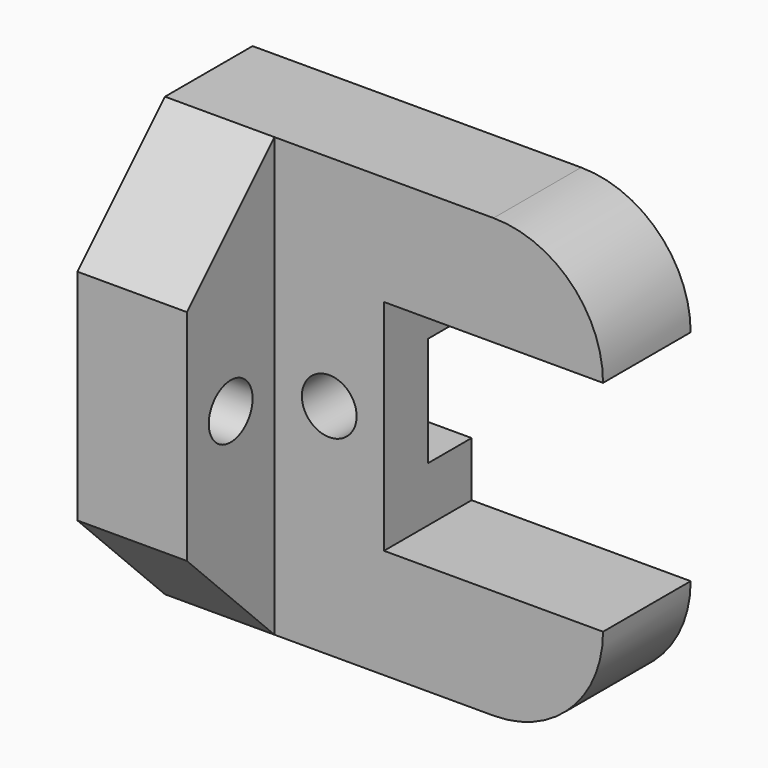
from build123d import *

# Parameters (mm, degrees)
F0_R     = 12.7
F1_DEPTH = 50.8
F0_W     = 50.8
F0_H     = 203.2
F2_DEPTH = 101.6
F3_R     = 12.7
F3_W     = 25.226168
F3_H     = 50.8
F4_DEPTH = 101.601


with BuildPart() as f1:
    # F0 (on Front) → F1 (new body)
    with BuildSketch(Plane.XZ):
        with BuildLine():
            Line((50.8, 203.2), (50.8, 0))
            Line((50.8, 0), (152.4, 0))
            ThreePointArc((152.4, 0), (188.321024, 14.878976), (203.2, 50.8))
            Line((203.2, 50.8), (101.6, 50.8))
            Line((101.6, 50.8), (101.6, 152.4))
            Line((101.6, 152.4), (203.2, 152.4))
            ThreePointArc((203.2, 152.4), (188.321024, 188.321024), (152.4, 203.2))
            Line((152.4, 203.2), (50.8, 203.2))
        make_face()
        with Locations((76.2, 101.6)):
            Circle(F0_R, mode=Mode.SUBTRACT)
    extrude(amount=F1_DEPTH)

    # F0 (on Front) → F2 (join)
    with BuildSketch(Plane.XZ):
        with Locations((25.4, 101.6)):
            Rectangle(F0_W, F0_H)
    extrude(amount=F2_DEPTH)

    # F3 (on face) → F4 (cut, through all)
    with BuildSketch(Plane.YZ.offset(101.6)):
        Polygon((-50.8, 0), (-101.6, 50.8), (-101.6, 0), align=None)
        Polygon((-101.6, 203.2), (-101.6, 152.4), (-50.8, 203.2), align=None)
        with Locations((-76.2, 101.6)):
            Circle(F3_R)
        with Locations((-12.613084, 101.6)):
            Rectangle(F3_W, F3_H)
    extrude(amount=-F4_DEPTH, mode=Mode.SUBTRACT)


solid = f1.part
